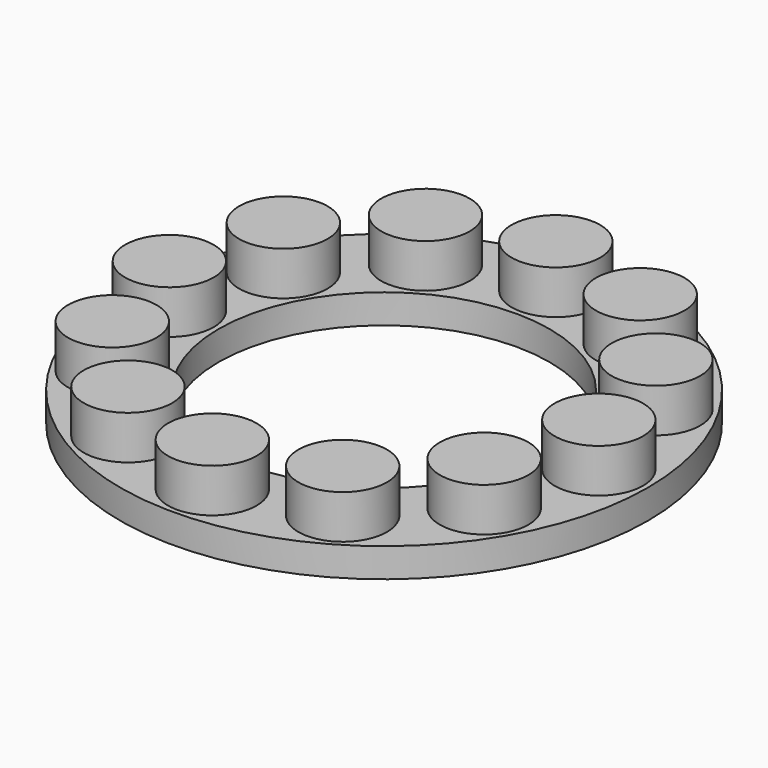
from build123d import *

# Parameters (mm, degrees)
F0_R     = 18.110450128
F0_R_2   = 3.0394543154
F0_R_3   = 11.3553291666
F1_DEPTH = 2
F2_DEPTH = 5


with BuildPart() as f1:
    # F0 (on Top) → F1 (new body)
    with BuildSketch(Plane.XY):
        Circle(F0_R)
        with Locations((-7.366, -12.7582)):
            Circle(F0_R_2, mode=Mode.SUBTRACT)
        with Locations((-12.7582, -7.366)):
            Circle(F0_R_2, mode=Mode.SUBTRACT)
        with Locations((0, -14.732)):
            Circle(F0_R_2, mode=Mode.SUBTRACT)
        with Locations((7.366, -12.7582)):
            Circle(F0_R_2, mode=Mode.SUBTRACT)
        with Locations((12.7582, -7.366)):
            Circle(F0_R_2, mode=Mode.SUBTRACT)
        with Locations((-14.732, 0)):
            Circle(F0_R_2, mode=Mode.SUBTRACT)
        with Locations((-12.7582, 7.3070060462)):
            Circle(F0_R_2, mode=Mode.SUBTRACT)
        with Locations((-7.366, 12.7582)):
            Circle(F0_R_2, mode=Mode.SUBTRACT)
        Circle(F0_R_3, mode=Mode.SUBTRACT)
        with Locations((14.732, 0)):
            Circle(F0_R_2, mode=Mode.SUBTRACT)
        with Locations((12.7582, 7.366)):
            Circle(F0_R_2, mode=Mode.SUBTRACT)
        with Locations((7.366, 12.7582)):
            Circle(F0_R_2, mode=Mode.SUBTRACT)
        with Locations((0, 14.732)):
            Circle(F0_R_2, mode=Mode.SUBTRACT)
        with Locations((-12.7582, 7.3070060462)):
            Circle(F0_R_2)
        with Locations((-7.366, 12.7582)):
            Circle(F0_R_2)
        with Locations((0, 14.732)):
            Circle(F0_R_2)
        with Locations((7.366, 12.7582)):
            Circle(F0_R_2)
        with Locations((12.7582, 7.366)):
            Circle(F0_R_2)
        with Locations((14.732, 0)):
            Circle(F0_R_2)
        with Locations((12.7582, -7.366)):
            Circle(F0_R_2)
        with Locations((7.366, -12.7582)):
            Circle(F0_R_2)
        with Locations((0, -14.732)):
            Circle(F0_R_2)
        with Locations((-7.366, -12.7582)):
            Circle(F0_R_2)
        with Locations((-12.7582, -7.366)):
            Circle(F0_R_2)
        with Locations((-14.732, 0)):
            Circle(F0_R_2)
    extrude(amount=F1_DEPTH)


with BuildPart() as f2:
    # F0 (on Top) → F2 (new body)
    with BuildSketch(Plane.XY):
        with Locations((-7.366, 12.7582)):
            Circle(F0_R_2)
    extrude(amount=F2_DEPTH)


with BuildPart() as f2b:
    # F0 (on Top) → F2, piece 2 (new body)
    with BuildSketch(Plane.XY):
        with Locations((0, 14.732)):
            Circle(F0_R_2)
    extrude(amount=F2_DEPTH)


with BuildPart() as f2c:
    # F0 (on Top) → F2, piece 3 (new body)
    with BuildSketch(Plane.XY):
        with Locations((7.366, 12.7582)):
            Circle(F0_R_2)
    extrude(amount=F2_DEPTH)


with BuildPart() as f2d:
    # F0 (on Top) → F2, piece 4 (new body)
    with BuildSketch(Plane.XY):
        with Locations((12.7582, 7.366)):
            Circle(F0_R_2)
    extrude(amount=F2_DEPTH)


with BuildPart() as f2e:
    # F0 (on Top) → F2, piece 5 (new body)
    with BuildSketch(Plane.XY):
        with Locations((14.732, 0)):
            Circle(F0_R_2)
    extrude(amount=F2_DEPTH)


with BuildPart() as f2f:
    # F0 (on Top) → F2, piece 6 (new body)
    with BuildSketch(Plane.XY):
        with Locations((12.7582, -7.366)):
            Circle(F0_R_2)
    extrude(amount=F2_DEPTH)


with BuildPart() as f2g:
    # F0 (on Top) → F2, piece 7 (new body)
    with BuildSketch(Plane.XY):
        with Locations((7.366, -12.7582)):
            Circle(F0_R_2)
    extrude(amount=F2_DEPTH)


with BuildPart() as f2h:
    # F0 (on Top) → F2, piece 8 (new body)
    with BuildSketch(Plane.XY):
        with Locations((0, -14.732)):
            Circle(F0_R_2)
    extrude(amount=F2_DEPTH)


with BuildPart() as f2i:
    # F0 (on Top) → F2, piece 9 (new body)
    with BuildSketch(Plane.XY):
        with Locations((-7.366, -12.7582)):
            Circle(F0_R_2)
    extrude(amount=F2_DEPTH)


with BuildPart() as f2j:
    # F0 (on Top) → F2, piece 10 (new body)
    with BuildSketch(Plane.XY):
        with Locations((-12.7582, -7.366)):
            Circle(F0_R_2)
    extrude(amount=F2_DEPTH)


with BuildPart() as f2k:
    # F0 (on Top) → F2, piece 11 (new body)
    with BuildSketch(Plane.XY):
        with Locations((-14.732, 0)):
            Circle(F0_R_2)
    extrude(amount=F2_DEPTH)


with BuildPart() as f2l:
    # F0 (on Top) → F2, piece 12 (new body)
    with BuildSketch(Plane.XY):
        with Locations((-12.7582, 7.3070060462)):
            Circle(F0_R_2)
    extrude(amount=F2_DEPTH)


solid = Compound([f1.part, f2.part, f2b.part, f2c.part, f2d.part, f2e.part, f2f.part, f2g.part, f2h.part, f2i.part, f2j.part, f2k.part, f2l.part])
